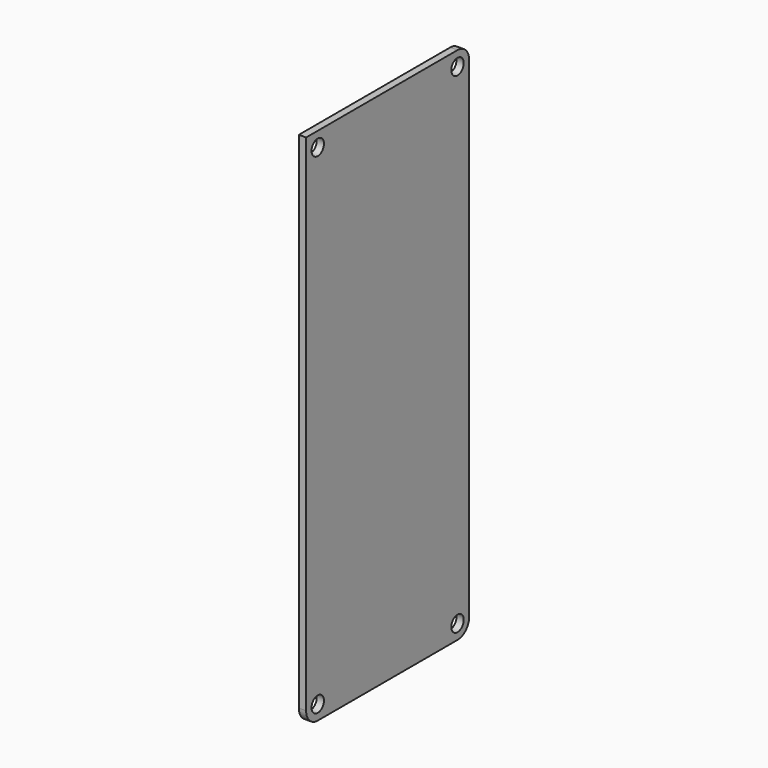
from build123d import *

# Parameters (mm, degrees)
CYLINDER049_R     = 1.6
CYLINDER049_DEPTH = 10
CYLINDER050_R     = 1.6
CYLINDER050_DEPTH = 10
CYLINDER051_R     = 1.6
CYLINDER051_DEPTH = 10
CYLINDER048_R     = 1.6
CYLINDER048_DEPTH = 10
BOX051_W          = 1.5
BOX051_H          = 42
BOX051_DEPTH      = 107
FILLET030_R       = 3


with BuildPart() as cylinder049:
    # Cylinder049 → Cylinder049 (new body)
    with BuildSketch(Plane(origin=(5, 39, 3), x_dir=(0, 0, 1), z_dir=(-1, 0, 0))):
        Circle(CYLINDER049_R)
    extrude(amount=CYLINDER049_DEPTH)


with BuildPart() as cylinder050:
    # Cylinder050 → Cylinder050 (new body)
    with BuildSketch(Plane(origin=(5, 3, 104), x_dir=(0, 0, 1), z_dir=(-1, 0, 0))):
        Circle(CYLINDER050_R)
    extrude(amount=CYLINDER050_DEPTH)


with BuildPart() as cylinder051:
    # Cylinder051 → Cylinder051 (new body)
    with BuildSketch(Plane(origin=(5, 39, 104), x_dir=(0, 0, 1), z_dir=(-1, 0, 0))):
        Circle(CYLINDER051_R)
    extrude(amount=CYLINDER051_DEPTH)


with BuildPart() as m3_cyl001:
    # Cylinder048 → Cylinder048 (new body)
    with BuildSketch(Plane(origin=(5, 3, 3), x_dir=(0, 0, 1), z_dir=(-1, 0, 0))):
        Circle(CYLINDER048_R)
    extrude(amount=CYLINDER048_DEPTH)

    # Fusion034: union Cylinder049, Cylinder050, Cylinder051
    add(cylinder049.part)
    add(cylinder050.part)
    add(cylinder051.part)


with BuildPart() as pcb:
    # Box051 → Box051 (new body)
    with BuildSketch(Plane.XY):
        with Locations((0.75, 21)):
            Rectangle(BOX051_W, BOX051_H)
    extrude(amount=BOX051_DEPTH)

    # Cut037: cut m3_cyl001
    add(m3_cyl001.part, mode=Mode.SUBTRACT)

    # Fillet030
    fillet030_edges = [pcb.edges().sort_by_distance(p)[0] for p in [
        (0.75, 0, 0),
        (0.75, 42, 107),
        (0.75, 42, 0),
    ]]
    fillet(fillet030_edges, radius=FILLET030_R)


solid = pcb.part
